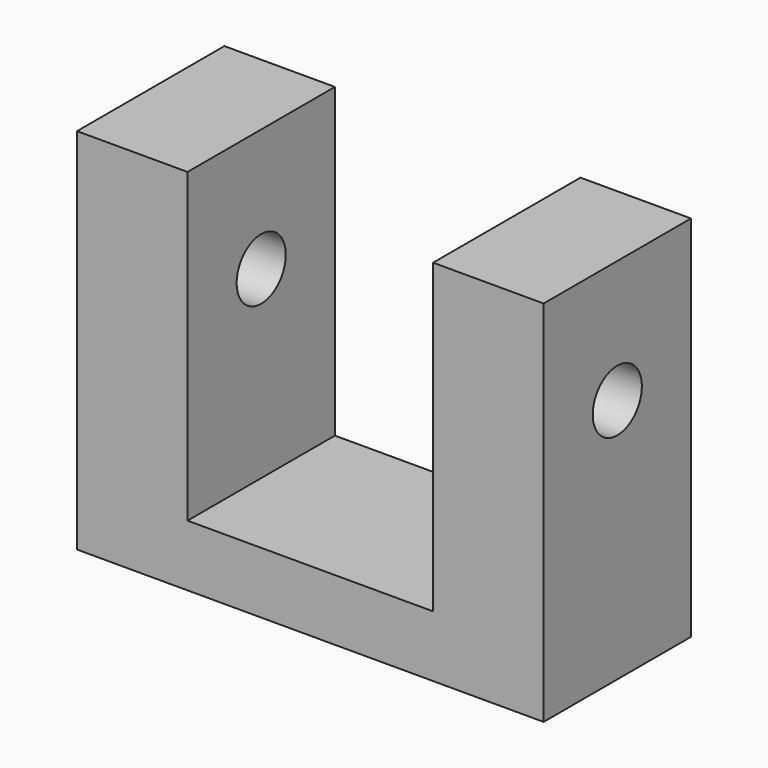
from build123d import *

# Parameters (mm, degrees)
F1_DEPTH = 9.525
F2_R     = 3.175
F3_DEPTH = 59.182
F4_R     = 3.175
F5_DEPTH = 12.7


with BuildPart() as f1:
    # F0 (on Front) → F1 (new body, symmetric)
    with BuildSketch(Plane.XZ):
        Polygon((-24.13, 0), (0, 0), (24.13, 0), (24.13, 38.1), (12.7, 38.1), (12.7, 6.35), (0, 6.35), (-12.7, 6.35), (-12.7, 38.1), (-24.13, 38.1), align=None)
    extrude(amount=F1_DEPTH, both=True)

    # F2 (on face) → F3 (cut)
    with BuildSketch(Plane.YZ.offset(24.13)):
        with Locations((0, 25.4)):
            Circle(F2_R)
    extrude(amount=-F3_DEPTH, mode=Mode.SUBTRACT)

    # F4 (on face) → F5 (cut)
    with BuildSketch(Plane(origin=(0, 0, 0), x_dir=(1, 0, 0), z_dir=(0, 0, -1))):
        with Locations((-19.3548, 3.175)):
            Circle(F4_R)
        with Locations((19.3548, 3.175)):
            Circle(F4_R)
    extrude(amount=-F5_DEPTH, mode=Mode.SUBTRACT)


solid = f1.part
